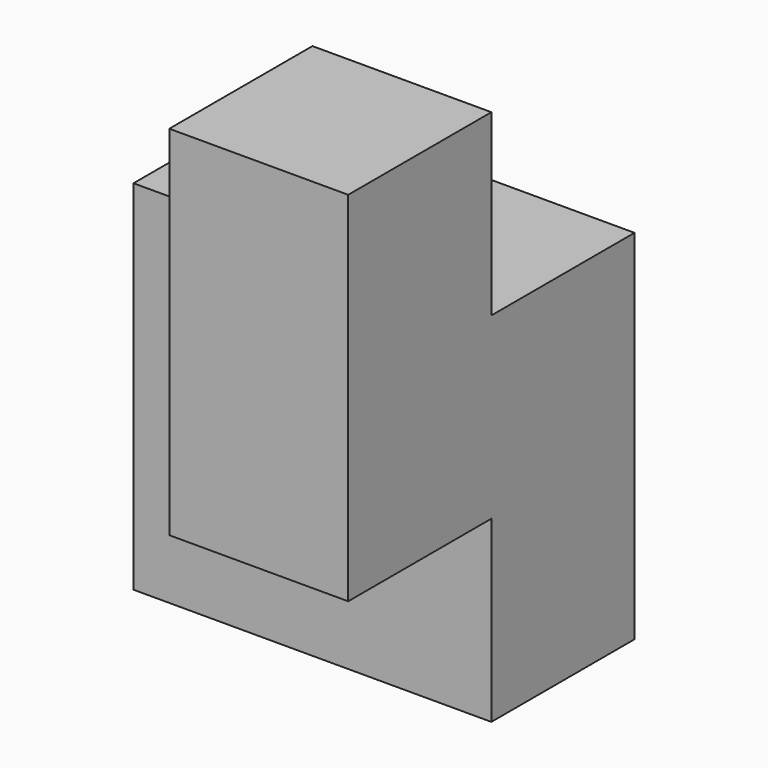
from build123d import *

# Parameters (mm, degrees)
F0_W      = 19.05
F0_H      = 19.05
F1_DEPTH  = 19.05
F1_FACE_W = 19.05
F1_FACE_H = 19.05
F2_DEPTH  = 19.05
F3_W      = 19.05
F3_H      = 19.05
F5_DEPTH  = 19.05
F4_W      = 19.05
F4_H      = 19.05
F6_DEPTH  = 19.05
F6_FACE_W = 19.05
F6_FACE_H = 19.05
F7_DEPTH  = 19.05
F8_W      = 19.05
F8_H      = 19.05
F9_DEPTH  = 19.05


with BuildPart() as f1:
    # F0 (on Top) → F1 (new body)
    with BuildSketch(Plane.XY):
        with Locations((9.525, 9.525)):
            Rectangle(F0_W, F0_H)
    extrude(amount=F1_DEPTH)

    # F1_face (on face) → F2 (join)
    with BuildSketch(Plane(origin=(9.525, 9.525, 19.05), x_dir=(1, 0, 0), z_dir=(0, 0, 1))):
        Rectangle(F1_FACE_W, F1_FACE_H)
    extrude(amount=F2_DEPTH)

    # F3 (on face) → F5 (join)
    with BuildSketch(Plane.XZ):
        with Locations((9.525, 28.575)):
            Rectangle(F3_W, F3_H)
    extrude(amount=F5_DEPTH)

    # F4 (on face) → F6 (join)
    with BuildSketch(Plane(origin=(0, 0, 0), x_dir=(0, -1, 0), z_dir=(-1, 0, 0))):
        with Locations((-9.525, 28.575)):
            Rectangle(F4_W, F4_H)
    extrude(amount=F6_DEPTH)

    # F6_face (on face) → F7 (join)
    with BuildSketch(Plane(origin=(0, 9.525, 9.525), x_dir=(0, -1, 0), z_dir=(-1, 0, 0))):
        Rectangle(F6_FACE_W, F6_FACE_H)
    extrude(amount=F7_DEPTH)

    # F8 (on face) → F9 (join)
    with BuildSketch(Plane.XY.offset(38.1)):
        with Locations((9.525, -9.525)):
            Rectangle(F8_W, F8_H)
    extrude(amount=F9_DEPTH)


solid = f1.part
